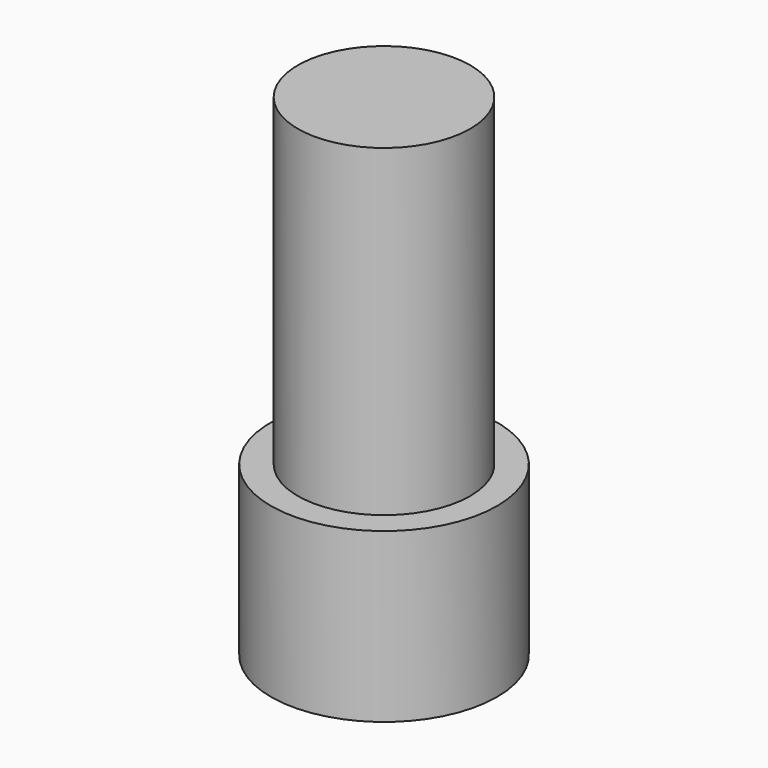
from build123d import *

# Parameters (mm, degrees)
F0_R     = 5.25
F0_R_2   = 4
F1_DEPTH = 7.8
F2_DEPTH = 5
F3_R     = 4
F4_DEPTH = 15


with BuildPart() as f1:
    # F0 (on Top) → F1 (new body)
    with BuildSketch(Plane.XY):
        Circle(F0_R)
        Circle(F0_R_2, mode=Mode.SUBTRACT)
        Circle(F0_R_2)
    extrude(amount=F1_DEPTH)

    # F0 (on Top) → F2 (cut)
    with BuildSketch(Plane.XY):
        Circle(F0_R_2)
    extrude(amount=F2_DEPTH, mode=Mode.SUBTRACT)

    # F3 (on face) → F4 (join)
    with BuildSketch(Plane.XY.offset(7.8)):
        Circle(F3_R)
    extrude(amount=F4_DEPTH)


solid = f1.part
